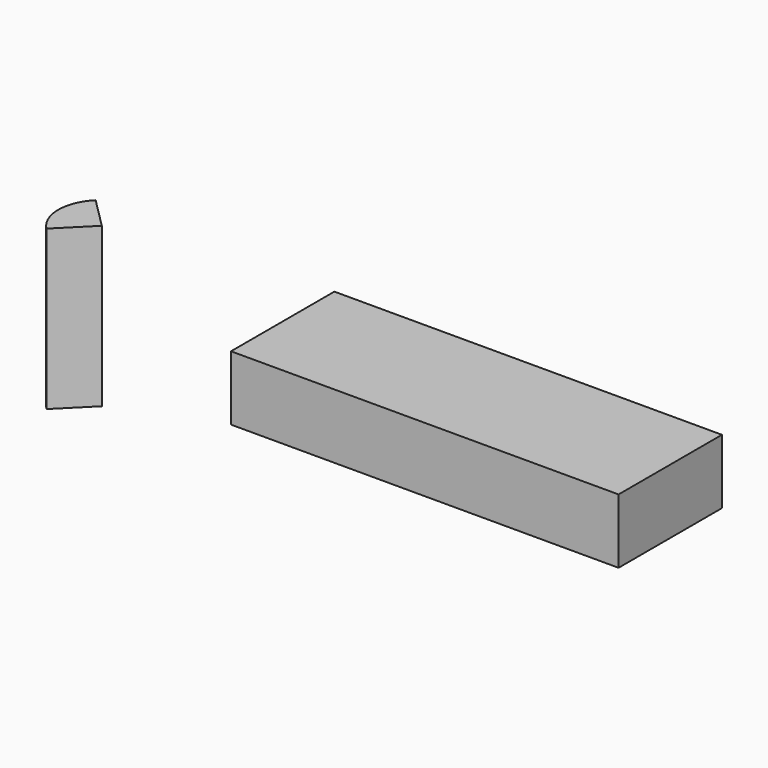
from build123d import *

# Parameters (mm, degrees)
F0_W          = 150
F0_H          = 50
F1_DEPTH      = 25
F2_W          = 16.8421028216
F2_H          = 61.4938159344
F3_ANGLE_BACK = 45
F3_ANGLE      = 90


with BuildPart() as f1:
    # F0 (on Top) → F1 (new body)
    with BuildSketch(Plane.XY):
        with Locations((75, 25)):
            Rectangle(F0_W, F0_H)
    extrude(amount=F1_DEPTH)


with BuildPart() as f3:
    # F2 (on Front) → F3 (revolve)
    with BuildSketch(Plane.XZ, mode=Mode.PRIVATE) as f3_sk:
        with Locations((-58.4210514108, 20.7469079672)):
            Rectangle(F2_W, F2_H)
    revolve(f3_sk.sketch.rotate(Axis((-50, 0, 20.7469079672), (0, 0, -1)), -F3_ANGLE_BACK), axis=Axis((-50, 0, 20.7469079672), (0, 0, -1)), revolution_arc=F3_ANGLE)


solid = Compound([f1.part, f3.part])
